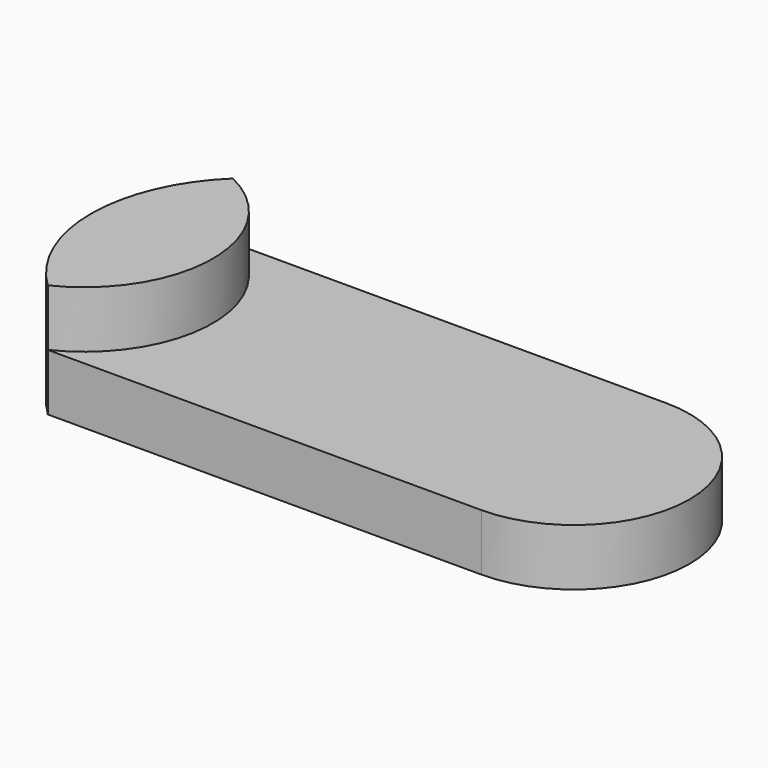
from build123d import *

# Parameters (mm, degrees)
F1_DEPTH = 1.27
F3_DEPTH = 2.54


with BuildPart() as f1:
    # F0 (on Top) → F1 (new body, symmetric)
    with BuildSketch(Plane.XY):
        with BuildLine():
            Line((-27.64691, 6.137663), (-27.64691, 16.483579))
            ThreePointArc((-27.64691, 16.483579), (-29.85317, 11.310621), (-27.64691, 6.137663))
        make_face()
        with BuildLine():
            ThreePointArc((-8.264118, 6.137663), (-3.09116, 11.310621), (-8.264118, 16.483579))
            Line((-8.264118, 16.483579), (-8.264118, 6.137663))
        make_face()
        with BuildLine():
            ThreePointArc((-27.64691, 6.137663), (-22.473953, 11.310621), (-27.64691, 16.483579))
            Line((-27.64691, 16.483579), (-27.64691, 6.137663))
        make_face()
        with BuildLine():
            Line((-8.264118, 16.483579), (-27.64691, 16.483579))
            ThreePointArc((-27.64691, 16.483579), (-22.473953, 11.310621), (-27.64691, 6.137663))
            Line((-27.64691, 6.137663), (-8.264118, 6.137663))
            Line((-8.264118, 6.137663), (-8.264118, 16.483579))
        make_face()
    extrude(amount=F1_DEPTH, both=True)

    # F2 (on face) → F3 (join, symmetric)
    with BuildSketch(Plane.XY.offset(1.27)):
        with BuildLine():
            ThreePointArc((-27.64691, 16.483579), (-29.85317, 11.310621), (-27.64691, 6.137663))
            ThreePointArc((-27.64691, 6.137663), (-24.405552, 11.310621), (-27.64691, 16.483579))
        make_face()
    extrude(amount=F3_DEPTH, both=True)


solid = f1.part
